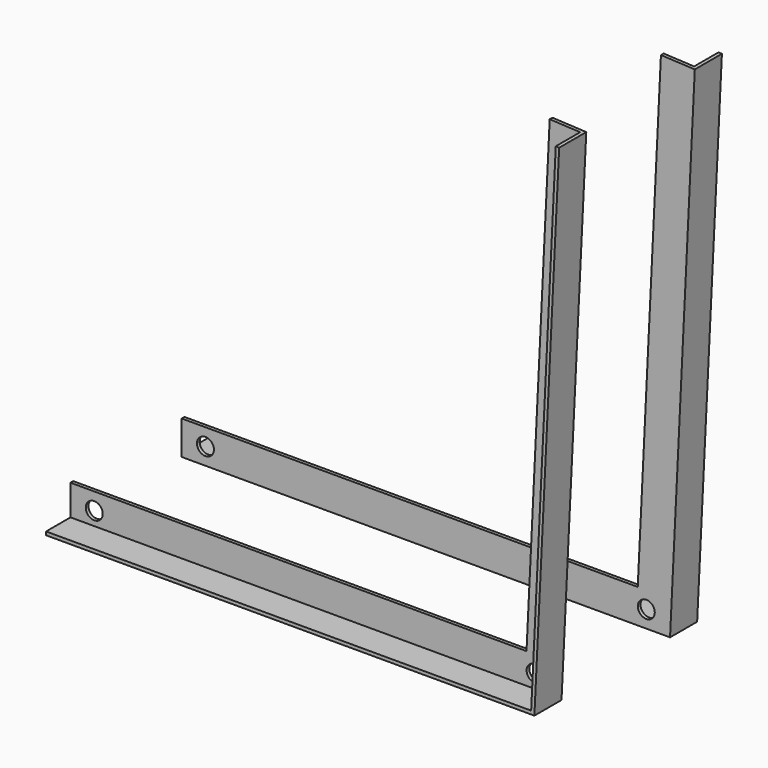
from build123d import *

# Parameters (mm, degrees)
F6_D = 25


with BuildPart() as f3:
    # F3: sweep along a path in F2
    with BuildLine(Plane.XZ.offset(-100)) as f3_path:
        Line((0, 0), (720, 0))
        Line((720, 0), (756.5065833717, 749.1109860164))
    # F0 (on Right) → F3 (sweep)
    with BuildSketch(Plane.YZ):
        Polygon((105, 50), (100, 50), (100, 0), (150, 0), (150, 5), (105, 5), align=None)
    sweep(path=f3_path.line, transition=Transition.RIGHT)

    # F6 (through all)
    with Locations(Plane.XZ.offset(-100)):
        with Locations((35, 25), (685, 25)):
            Hole(F6_D / 2)


with BuildPart() as f7_1:
    # F7: instance of F3
    add(f3.part.mirror(Plane.XZ))


solid = Compound([f3.part, f7_1.part])
